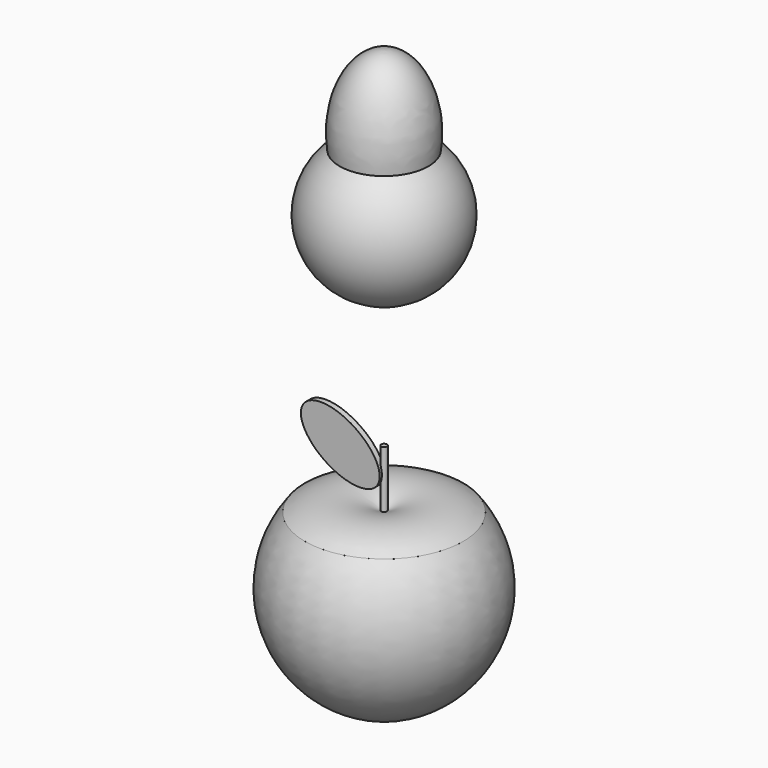
from build123d import *

# Parameters (mm, degrees)
F3_DEPTH = 1


with BuildPart() as f1:
    # F0 (on Front) → F1 (revolve)
    with BuildSketch(Plane.XZ):
        with BuildLine():
            Line((-0.5166544978, 5.3601767222), (-0.5166544978, 0.3104421127))
            ThreePointArc((-0.5166544978, 0.3104421127), (-7.23414052, 2.0062311516), (-13.8655321906, 0))
            ThreePointArc((-13.8655321906, 0), (-17.0795022001, -17.0423703402), (-5, -29.4865503707))
            ThreePointArc((-5, -29.4865503707), (-3.1004830217, -28.8005962976), (-1.1139665918, -28.4366591946))
            Line((-1.1139665918, -28.4366591946), (-1.1139665918, -30.7730045255))
            Line((-1.1139665918, -30.7730045255), (-0.6140601472, -30.1793310791))
            Line((-0.6140601472, -30.1793310791), (0, -30.6964042729))
            Line((0, -30.6964042729), (0, -28.3776893816))
            Line((0, -28.3776893816), (0, 5.3601767222))
            Line((0, 5.3601767222), (0, 10.3149702772))
            Line((0, 10.3149702772), (-0.5166544978, 10.3149702772))
            Line((-0.5166544978, 10.3149702772), (-0.5166544978, 5.3601767222))
        make_face()
    revolve(axis=Axis((0, 0, -11.5087563297), (0, 0, -1)))

    # F2 (on Front) → F3 (join)
    with BuildSketch(Plane.XZ):
        with BuildLine():
            add(Edge.make_bspline(
                [(-0.3582064946, 4.4966676991), (3.6012862035, 10.7836037544), (-8.1555963463, 13.7977455791), (-19.9124788961, 16.8118874037), (-12.1150890444, 7.5108095238), (-4.3176991927, -1.7902683562), (-0.3582064946, 4.4966676991)],
                knots=[0, 0, 0, 2.0943951024, 2.0943951024, 4.1887902048, 4.1887902048, 6.2831853072, 6.2831853072, 6.2831853072], degree=2, weights=[1, 0.5, 1, 0.5, 1, 0.5, 1]))
        make_face()
    extrude(amount=F3_DEPTH)


with BuildPart() as f5:
    # F4 (on Front) → F5 (revolve)
    with BuildSketch(Plane.XZ):
        with BuildLine():
            add(Edge.make_bspline(
                [(0, 71.2720254136), (-9.8653923522, 71.2720254136), (-7.787601298, 55.9147670074)],
                knots=[3.1415926536, 3.1415926536, 3.1415926536, 4.9245921219, 4.9245921219, 4.9245921219], degree=2, weights=[1, 0.6282459181, 1]))
            ThreePointArc((-7.787601298, 55.9147670074), (-11.9989973103, 41.7844228051), (0, 33.2154936307))
            Line((0, 33.2154936307), (0, 71.2720254136))
        make_face()
    revolve(axis=Axis((0, 0, 52.2437595222), (0, 0, -1)))


solid = Compound([f1.part, f5.part])
